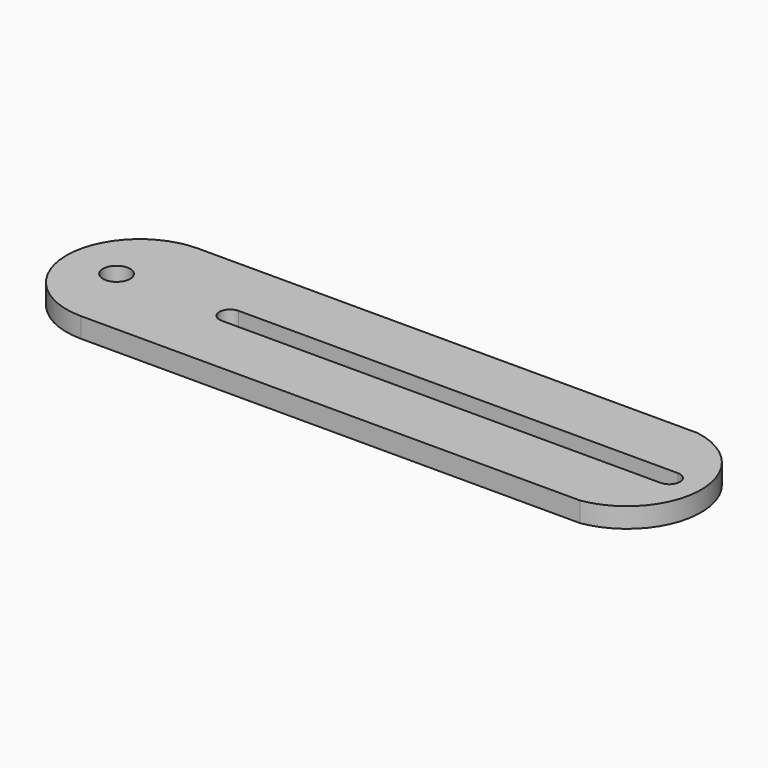
from build123d import *

# Parameters (mm, degrees)
F1_DEPTH = 3
F2_D     = 4.1


with BuildPart() as f1:
    # F0 (on Top) → F1 (new body)
    with BuildSketch(Plane.XY):
        with BuildLine():
            Line((13.0338203524, 11), (-61.9661796476, 11))
            ThreePointArc((-61.9661796476, 11), (-72.9661796476, 0), (-61.9661796476, -11))
            Line((-61.9661796476, -11), (13.0338203524, -11))
            ThreePointArc((13.0338203524, -11), (22.4049554576, 0), (13.0338203524, 11))
        make_face()
        with BuildLine():
            ThreePointArc((-48.3821049507, -1.6), (-49.9821049507, 0), (-48.3821049507, 1.6))
            Line((-48.3821049507, 1.6), (17.6169872284, 1.6))
            ThreePointArc((17.6169872284, 1.6), (19.2169872284, 0), (17.6169872284, -1.6))
            Line((17.6169872284, -1.6), (-48.3821049507, -1.6))
        make_face(mode=Mode.SUBTRACT)
    extrude(amount=F1_DEPTH)

    # F2 (through all)
    with Locations(Plane(origin=(0, 0, 0), x_dir=(1, 0, 0), z_dir=(0, 0, -1))):
        with Locations((-65.4418841004, 0)):
            Hole(F2_D / 2)


solid = f1.part
